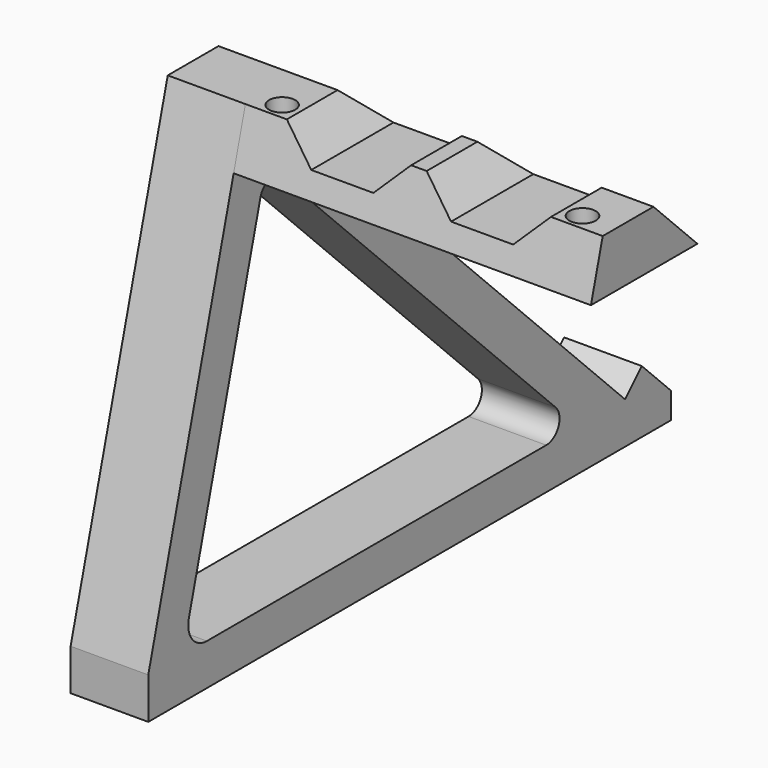
from build123d import *

# Parameters (mm, degrees)
PAD_DEPTH       = 15
SKETCH001_R     = 2.5
POCKET_DEPTH    = 6
PAD001_DEPTH    = 69
POCKET001_DEPTH = 0.001
POCKET002_DEPTH = 126.205435
SKETCH004_R     = 2.52796
SKETCH004_R_2   = 2.538571
POCKET003_DEPTH = 6


with BuildPart() as part:
    # Sketch → Pad (new body)
    with BuildSketch(Plane.YZ):
        Polygon((-126.204435, 0), (0, 0), (0, 5), (-7.071068, 12.071068), (-11.101576, 8.040559), (-72.619866, 69.558849), (-68.589358, 73.589358), (-90.509668, 95.509668), (-102.756291, 95.509668), (-126.204435, 8), align=None)
        with BuildLine():
            Line((-93.961967, 79.587241), (-27.868512, 13.493786))
            ThreePointArc((-30.144113, 8), (-27.170897, 9.986639), (-27.868512, 13.493786))
            Line((-30.144113, 8), (-112.060173, 8))
            ThreePointArc((-116.405015, 13.662309), (-115.628765, 9.759835), (-112.060173, 8))
            Line((-116.405015, 13.662309), (-99.110102, 78.207802))
            ThreePointArc((-93.961967, 79.587241), (-96.934244, 80.38366), (-99.110102, 78.207802))
        make_face(mode=Mode.SUBTRACT)
    extrude(amount=PAD_DEPTH)

    # Sketch001 (on Face8 of Pad) → Pocket (cut)
    with BuildSketch(Plane(origin=(0, 2.5, 2.5), x_dir=(0, -0.707107, 0.707107), z_dir=(0, 0.707107, 0.707107))):
        with Locations((8.535534, 7.61996)):
            Circle(SKETCH001_R)
        with Locations((124.535534, 7.619247)):
            Circle(SKETCH001_R)
    extrude(amount=-POCKET_DEPTH, mode=Mode.SUBTRACT)

    # Sketch002 (on Face5 of Pocket) → Pad001 (join)
    with BuildSketch(Plane.YZ.offset(15)):
        Polygon((-105.598321, 84.903066), (-79.903066, 84.903066), (-90.509668, 95.509668), (-102.756291, 95.509668), align=None)
    extrude(amount=PAD001_DEPTH)

    # Sketch003 → Pocket001 (cut, through all)
    with BuildSketch(Plane.XZ):
        Polygon((23, 95.509668), (29, 89.509668), (41, 89.509668), (47, 95.509668), align=None)
        Polygon((50, 95.509668), (74, 95.509668), (68, 89.509668), (56, 89.509668), align=None)
    extrude(amount=-POCKET001_DEPTH, mode=Mode.SUBTRACT)

    # Sketch003 → Pocket002 (cut, through all)
    with BuildSketch(Plane.XZ):
        Polygon((23, 95.509668), (29, 89.509668), (41, 89.509668), (47, 95.509668), align=None)
        Polygon((50, 95.509668), (74, 95.509668), (68, 89.509668), (56, 89.509668), align=None)
    extrude(amount=POCKET002_DEPTH, mode=Mode.SUBTRACT)

    # Sketch004 (on Face21 of Pocket002) → Pocket003 (cut)
    with BuildSketch(Plane(origin=(0, 0, 95.509668), x_dir=(0, -1, 0), z_dir=(0, 0, 1))):
        with Locations((99.509668, 19.5)):
            Circle(SKETCH004_R)
        with Locations((99.509668, 77.5)):
            Circle(SKETCH004_R_2)
    extrude(amount=-POCKET003_DEPTH, mode=Mode.SUBTRACT)


solid = part.part
